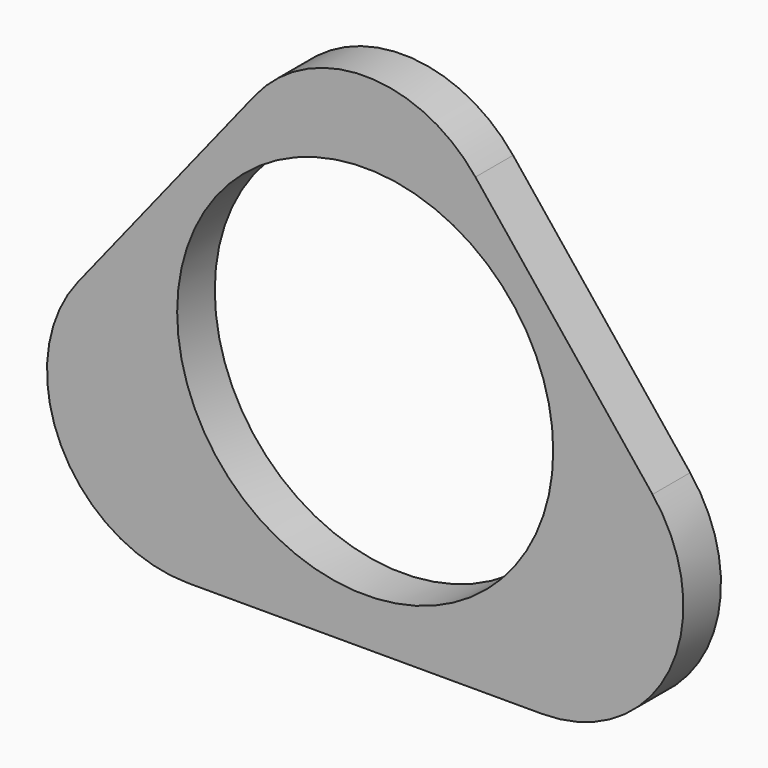
from build123d import *

# Parameters (mm, degrees)
F0_R     = 19.989645
F1_DEPTH = 5
F2_R     = 15


with BuildPart() as f1:
    # F0 (on Front) → F1 (new body)
    with BuildSketch(Plane.XZ):
        Polygon((-50, -25), (0, -25), (50, -25), (0, 37.618022), align=None)
        Circle(F0_R, mode=Mode.SUBTRACT)
    extrude(amount=F1_DEPTH)

    # F2
    f2_edges = [f1.edges().sort_by_distance(p)[0] for p in [
        (0, -2.5, 37.618022),
        (-50, -2.5, -25),
        (50, -2.5, -25),
    ]]
    fillet(f2_edges, radius=F2_R)


solid = f1.part
